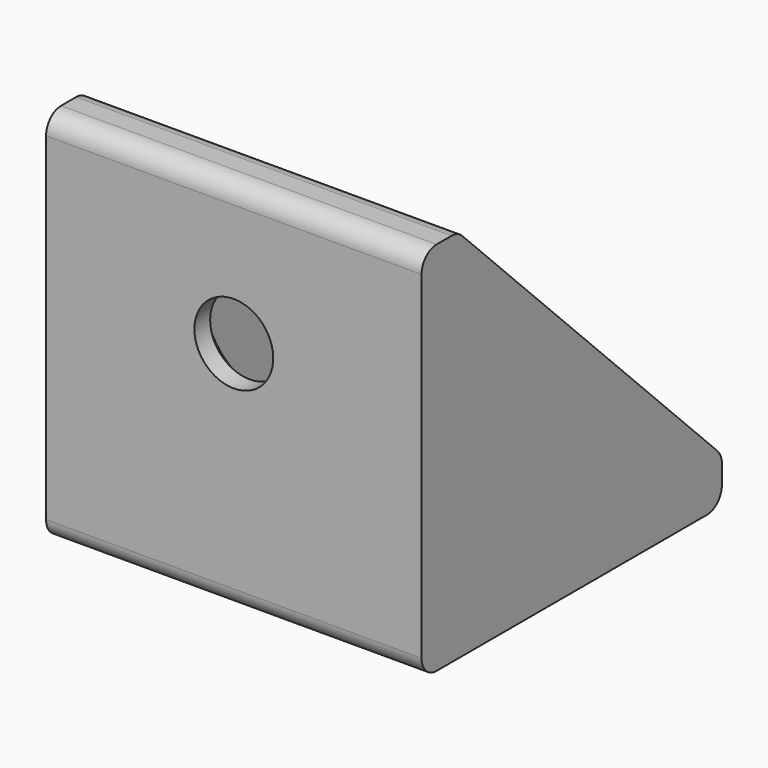
from build123d import *

# Parameters (mm, degrees)
PAD_DEPTH            = 20
POCKET_DEPTH         = 16
HOLE_D               = 4
HOLE_CSINK_D         = 7
HOLE_CSINK_ANGLE     = 90
HOLE001_D            = 4.2
HOLE001_DEPTH        = 25
HOLE001_CSINK_D      = 8.1
HOLE001_CSINK_ANGLE  = 90
BODY_PLACEMENT_ANGLE = 90


with BuildPart() as part:
    # Sketch → Pad (new body)
    with BuildSketch(Plane.XZ):
        with BuildLine():
            Line((0, 19), (0, 1))
            ThreePointArc((0, 1), (0.292893, 0.292893), (1, 0))
            Line((1, 0), (19, 0))
            ThreePointArc((19, 0), (19.707107, 0.292893), (20, 1))
            Line((20, 1), (20, 2))
            ThreePointArc((20, 2), (19.92388, 2.382683), (19.707107, 2.707107))
            Line((19.707107, 2.707107), (2.707107, 19.707107))
            ThreePointArc((2.707107, 19.707107), (2.382683, 19.92388), (2, 20))
            Line((2, 20), (1, 20))
            ThreePointArc((1, 20), (0.292893, 19.707107), (0, 19))
        make_face()
    extrude(amount=PAD_DEPTH)

    # Sketch001 (on Face12 of Pad) → Pocket (cut)
    with BuildSketch(Plane.XZ.offset(18)):
        with BuildLine():
            Line((3, 19), (3, 4))
            ThreePointArc((3, 4), (3.292893, 3.292893), (4, 3))
            Line((4, 3), (19, 3))
            ThreePointArc((20, 2), (19.707107, 2.707107), (19, 3))
            Line((20, 20), (20, 2))
            Line((2, 20), (20, 20))
            ThreePointArc((3, 19), (2.707107, 19.707107), (2, 20))
        make_face()
    extrude(amount=-POCKET_DEPTH, mode=Mode.SUBTRACT)

    # Hole (through all)
    with Locations(Plane(origin=(0, 0, 3), x_dir=(-1, 0, 0), z_dir=(0, 0, 1))):
        with Locations((-11.5, 10)):
            CounterSinkHole(HOLE_D / 2, HOLE_CSINK_D / 2, counter_sink_angle=HOLE_CSINK_ANGLE)

    # Hole001
    with Locations(Plane(origin=(3, 0, 0), x_dir=(0, 0, 1), z_dir=(1, 0, 0))):
        with Locations((12.5, 10)):
            CounterSinkHole(HOLE001_D / 2, HOLE001_CSINK_D / 2, depth=HOLE001_DEPTH, counter_sink_angle=HOLE001_CSINK_ANGLE)


with BuildPart() as part_1:
    # Body placement: moved
    add(part.part.moved(Location((60, 13.9, 0))).rotate(Axis((60, 13.9, 0), (0, 0, 1)), BODY_PLACEMENT_ANGLE))


solid = part_1.part
